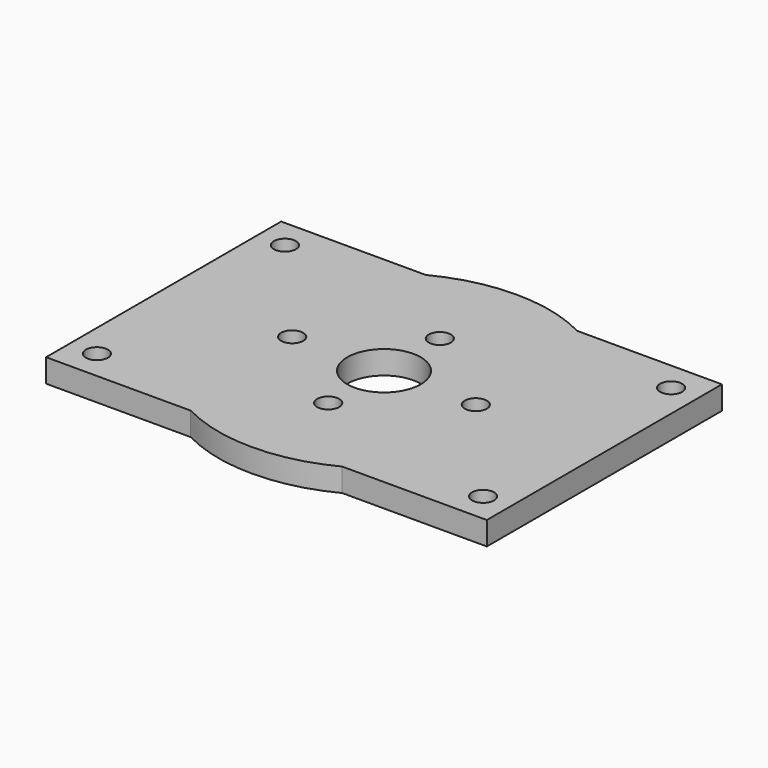
from build123d import *

# Parameters (mm, degrees)
F0_R     = 1.5
F0_R_2   = 5
F1_DEPTH = 3.175


with BuildPart() as f1:
    # F0 (on Top) → F1 (new body)
    with BuildSketch(Plane.XY):
        with BuildLine():
            Line((10.307764064, -20), (30, -20))
            Line((30, -20), (30, 20))
            Line((30, 20), (10.307764064, 20))
            ThreePointArc((10.307764064, 20), (19.2116460961, 11.7116460961), (22.5, 0))
            ThreePointArc((22.5, 0), (19.2116460961, -11.7116460961), (10.307764064, -20))
        make_face()
        with Locations((26.2877084315, -16)):
            Circle(F0_R, mode=Mode.SUBTRACT)
        with Locations((26.2877084315, 16)):
            Circle(F0_R, mode=Mode.SUBTRACT)
        with BuildLine():
            ThreePointArc((-10.307764064, -20), (0, -22.5), (10.307764064, -20))
            Line((10.307764064, -20), (-10.307764064, -20))
        make_face()
        with BuildLine():
            Line((-10.307764064, -20), (10.307764064, -20))
            ThreePointArc((10.307764064, -20), (19.2116460961, -11.7116460961), (22.5, 0))
            ThreePointArc((22.5, 0), (19.2116460961, 11.7116460961), (10.307764064, 20))
            Line((10.307764064, 20), (-10.307764064, 20))
            ThreePointArc((-10.307764064, 20), (-22.5, 0), (-10.307764064, -20))
        make_face()
        with Locations((0, -9.5)):
            Circle(F0_R, mode=Mode.SUBTRACT)
        with Locations((-12.5, 0)):
            Circle(F0_R, mode=Mode.SUBTRACT)
        Circle(F0_R_2, mode=Mode.SUBTRACT)
        with Locations((12.5, 0)):
            Circle(F0_R, mode=Mode.SUBTRACT)
        with Locations((0, 9.5)):
            Circle(F0_R, mode=Mode.SUBTRACT)
        with BuildLine():
            Line((-30, -20), (-10.307764064, -20))
            ThreePointArc((-10.307764064, -20), (-22.5, 0), (-10.307764064, 20))
            Line((-10.307764064, 20), (-30, 20))
            Line((-30, 20), (-30, -20))
        make_face()
        with Locations((-26.2877084315, -16)):
            Circle(F0_R, mode=Mode.SUBTRACT)
        with Locations((-26.2877084315, 16)):
            Circle(F0_R, mode=Mode.SUBTRACT)
        with BuildLine():
            Line((-10.307764064, 20), (10.307764064, 20))
            ThreePointArc((10.307764064, 20), (0, 22.5), (-10.307764064, 20))
        make_face()
    extrude(amount=F1_DEPTH)


solid = f1.part
